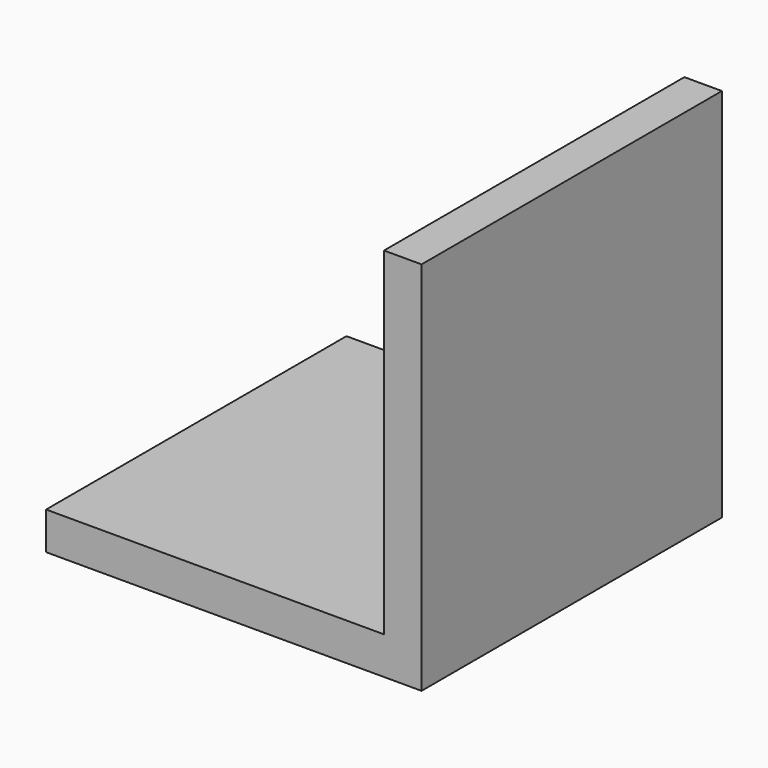
from build123d import *

# Parameters (mm, degrees)
BOX007_W                  = 50
BOX007_H                  = 58
BOX007_DEPTH              = 50
BOX006_W                  = 50
BOX006_H                  = 50
BOX006_DEPTH              = 50
CUT002008_PLACEMENT_ANGLE = 180


with BuildPart() as cube002:
    # Box007 → Box007 (new body)
    with BuildSketch(Plane(origin=(5, -3, -5), x_dir=(1, 0, 0), z_dir=(0, 0, 1))):
        with Locations((25, 29)):
            Rectangle(BOX007_W, BOX007_H)
    extrude(amount=BOX007_DEPTH)


with BuildPart() as cut002008:
    # Box006 → Box006 (new body)
    with BuildSketch(Plane.XY):
        with Locations((25, 25)):
            Rectangle(BOX006_W, BOX006_H)
    extrude(amount=BOX006_DEPTH)

    # Cut002008: cut Cube002
    add(cube002.part, mode=Mode.SUBTRACT)


with BuildPart() as cut002008_1:
    # Cut002008 placement: moved
    add(cut002008.part.moved(Location((66, 35, 56))).rotate(Axis((66, 35, 56), (0, 1, 0)), CUT002008_PLACEMENT_ANGLE))


solid = cut002008_1.part
